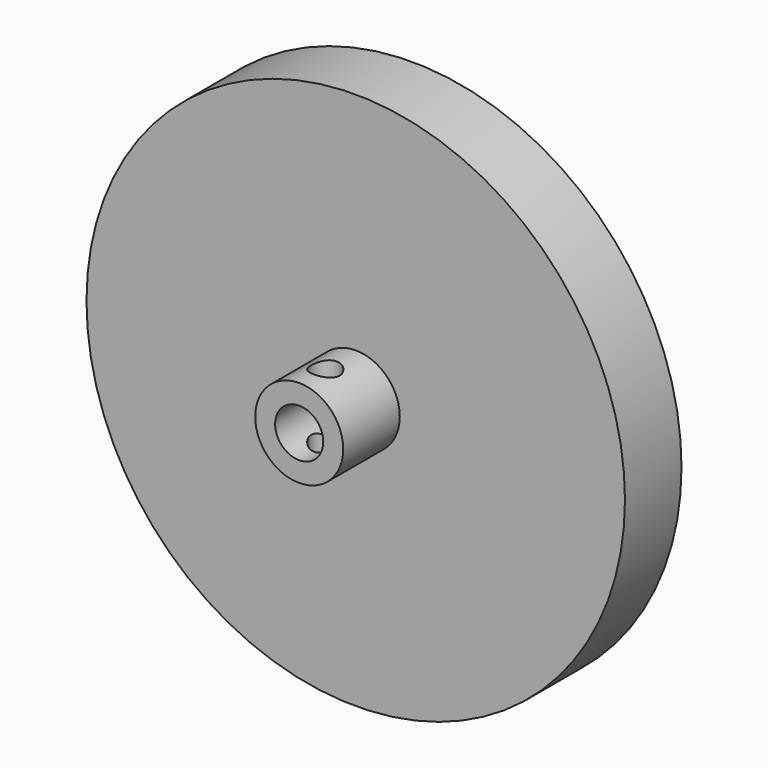
from build123d import *

# Parameters (mm, degrees)
F0_R     = 57.15
F0_R_2   = 5
F1_DEPTH = 15
F2_R     = 9.345244
F2_R_2   = 5.10775
F3_DEPTH = 15
F4_R     = 3
F5_DEPTH = 12.7
F6_R     = 1.5
F7_DEPTH = 10


with BuildPart() as f1:
    # F0 (on Front) → F1 (new body)
    with BuildSketch(Plane.XZ):
        Circle(F0_R)
        Circle(F0_R_2, mode=Mode.SUBTRACT)
    extrude(amount=F1_DEPTH)

    # F2 (on face) → F3 (join)
    with BuildSketch(Plane.XZ.offset(15)):
        Circle(F2_R)
        Circle(F2_R_2, mode=Mode.SUBTRACT)
    extrude(amount=F3_DEPTH)

    # F4 (on Top) → F5 (cut, symmetric)
    with BuildSketch(Plane.XY):
        with Locations((0, -23.08)):
            Circle(F4_R)
    extrude(amount=F5_DEPTH, both=True, mode=Mode.SUBTRACT)

    # F6 (on face) → F7 (join)
    with BuildSketch(Plane(origin=(0, 0, 0), x_dir=(-1, 0, 0), z_dir=(0, 1, 0))):
        with Locations((0, 10)):
            Circle(F6_R)
        with Locations((7.071068, 7.071068)):
            Circle(F6_R)
        with Locations((10, 0)):
            Circle(F6_R)
        with Locations((7.071068, -7.071068)):
            Circle(F6_R)
        with Locations((0, -10)):
            Circle(F6_R)
        with Locations((-10, 0)):
            Circle(F6_R)
        with Locations((-7.071068, -7.071068)):
            Circle(F6_R)
        with Locations((-7.071068, 7.071068)):
            Circle(F6_R)
    extrude(amount=F7_DEPTH)


solid = f1.part
